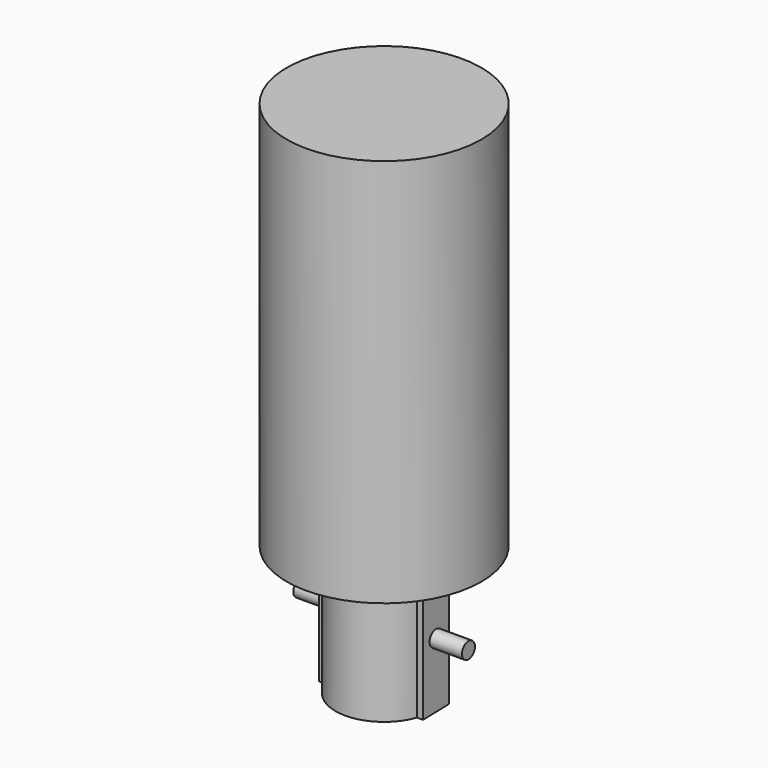
from build123d import *

# Parameters (mm, degrees)
F0_R     = 15
F1_DEPTH = 60
F2_R     = 7.5
F3_DEPTH = 20
F6_DEPTH = 1
F7_R     = 1.25
F8_DEPTH = 5


with BuildPart() as f1:
    # F0 (on Top) → F1 (new body)
    with BuildSketch(Plane.XY):
        Circle(F0_R)
    extrude(amount=F1_DEPTH)

    # F2 (on Top) → F3 (join)
    with BuildSketch(Plane.XY):
        Circle(F2_R)
    extrude(amount=-F3_DEPTH)

    # F5 (on offset) → F6 (join)
    with BuildSketch(Plane.YZ.offset(7)):
        Polygon((-2.499352, 0), (-2.499352, -20), (2.499352, -19.886207), (2.499352, 0), align=None)
    extrude(amount=F6_DEPTH)

    # F7 (on face) → F8 (join)
    with BuildSketch(Plane.YZ.offset(8)):
        with Locations((0.000648, -9.943104)):
            Circle(F7_R)
    extrude(amount=F8_DEPTH)

    # F9: F1 across plane


with BuildPart() as f1_1:
    add(f1.part)
    add(f1.part.mirror(Plane.YZ))


solid = f1_1.part
